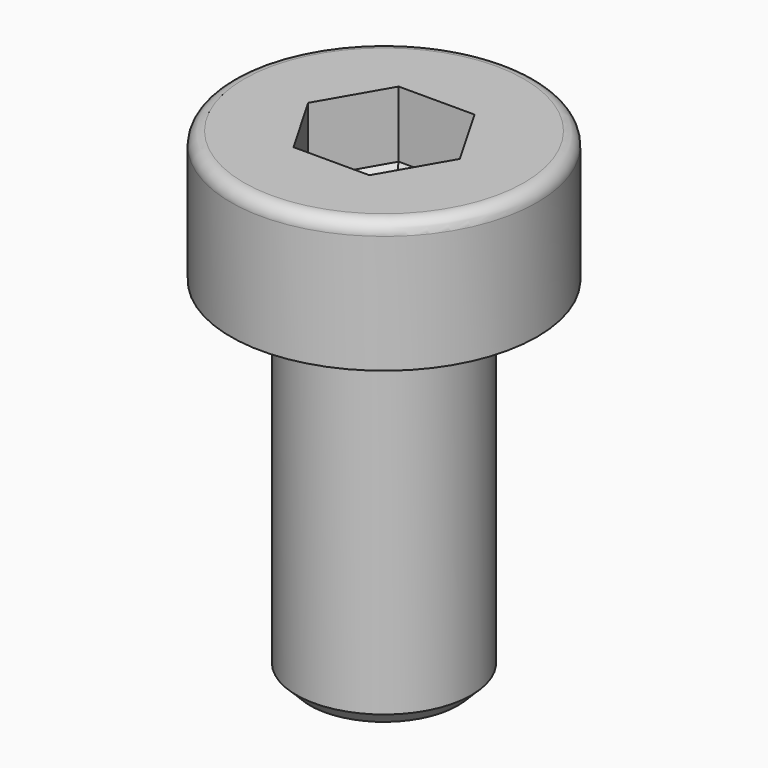
from build123d import *

# Parameters (mm, degrees)
SKETCH_R        = 2
PAD_DEPTH       = 8
SKETCH001_R     = 3.5
PAD001_DEPTH    = 3
FILLET_R        = 0.1
FILLET001_R     = 0.3
CHAMFER_SIZE    = 0.31
POCKET_DEPTH    = 3
CHAMFER001_SIZE = 1.49


with BuildPart() as part:
    # Sketch → Pad (new body)
    with BuildSketch(Plane.XY):
        Circle(SKETCH_R)
    extrude(amount=PAD_DEPTH)

    # Sketch001 → Pad001 (new body)
    with BuildSketch(Plane.XY.offset(8)):
        Circle(SKETCH001_R)
    extrude(amount=PAD001_DEPTH)

    # Fillet
    fillet_edges = [part.edges().sort_by_distance(p)[0] for p in [
        (-2, 0, 8),
    ]]
    fillet(fillet_edges, radius=FILLET_R)

    # Fillet001
    fillet001_edges = [part.edges().sort_by_distance(p)[0] for p in [
        (-3.5, 0, 11),
    ]]
    fillet(fillet001_edges, radius=FILLET001_R)

    # Chamfer
    chamfer_edges = [part.edges().sort_by_distance(p)[0] for p in [
        (-2, 0, 0),
    ]]
    chamfer(chamfer_edges, length=CHAMFER_SIZE)

    # Sketch002 → Pocket (cut)
    with BuildSketch(Plane.XY.offset(11)):
        Polygon((-0.865949, 1.499956), (0.866051, 1.499956), (1.732051, 0), (0.866051, -1.499956), (-0.865949, -1.499956), (-1.731949, 0), align=None)
    extrude(amount=-POCKET_DEPTH, mode=Mode.SUBTRACT)

    # Chamfer001
    chamfer001_edges = [part.edges().sort_by_distance(p)[0] for p in [
        (1.299051, -0.749978, 8),
        (5.1e-05, -1.499956, 8),
        (-1.298949, -0.749978, 8),
        (-1.298949, 0.749978, 8),
        (5.1e-05, 1.499956, 8),
        (1.299051, 0.749978, 8),
    ]]
    chamfer(chamfer001_edges, length=CHAMFER001_SIZE)


solid = part.part
